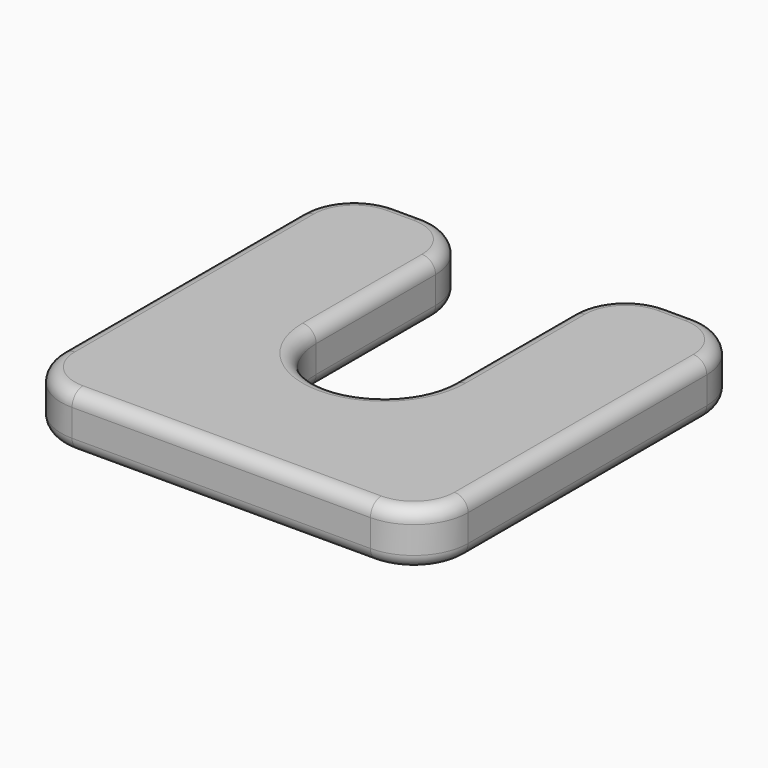
from build123d import *

# Parameters (mm, degrees)
F1_DEPTH = 2
F2_R     = 2
F3_R     = 0.5


with BuildPart() as f1:
    # F0 (on Top) → F1 (new body)
    with BuildSketch(Plane.XY):
        with BuildLine():
            Line((2.5, 7.5), (2.5, 0))
            ThreePointArc((2.5, 0), (0, -2.5), (-2.5, 0))
            Line((-2.5, 0), (-2.5, 7.5))
            Line((-2.5, 7.5), (-7.5, 7.5))
            Line((-7.5, 7.5), (-7.5, -7.5))
            Line((-7.5, -7.5), (7.5, -7.5))
            Line((7.5, -7.5), (7.5, 7.5))
            Line((7.5, 7.5), (2.5, 7.5))
        make_face()
    extrude(amount=F1_DEPTH)

    # F2
    f2_edges = [f1.edges().sort_by_distance(p)[0] for p in [
        (7.5, -7.5, 1),
        (-7.5, -7.5, 1),
        (7.5, 7.5, 1),
        (2.5, 7.5, 1),
        (-2.5, 7.5, 1),
        (-7.5, 7.5, 1),
    ]]
    fillet(f2_edges, radius=F2_R)

    # F3
    f3_edges = [f1.edges().sort_by_distance(p)[0] for p in [
        (7.5, 0, 2),
        (6.914214, -6.914214, 2),
        (6.914214, 6.914214, 2),
        (0, -7.5, 2),
        (5, 7.5, 2),
        (-6.914214, -6.914214, 2),
        (3.085786, 6.914214, 2),
        (-7.5, 0, 2),
        (2.5, 2.75, 2),
        (-6.914214, 6.914214, 2),
        (0, -2.5, 2),
        (-5, 7.5, 2),
        (-2.5, 2.75, 2),
        (-3.085786, 6.914214, 2),
        (7.5, 0, 0),
        (6.914214, -6.914214, 0),
        (6.914214, 6.914214, 0),
        (0, -7.5, 0),
        (5, 7.5, 0),
        (-6.914214, -6.914214, 0),
        (3.085786, 6.914214, 0),
        (-7.5, 0, 0),
        (2.5, 2.75, 0),
        (-6.914214, 6.914214, 0),
        (0, -2.5, 0),
        (-5, 7.5, 0),
        (-2.5, 2.75, 0),
        (-3.085786, 6.914214, 0),
    ]]
    fillet(f3_edges, radius=F3_R)


solid = f1.part
